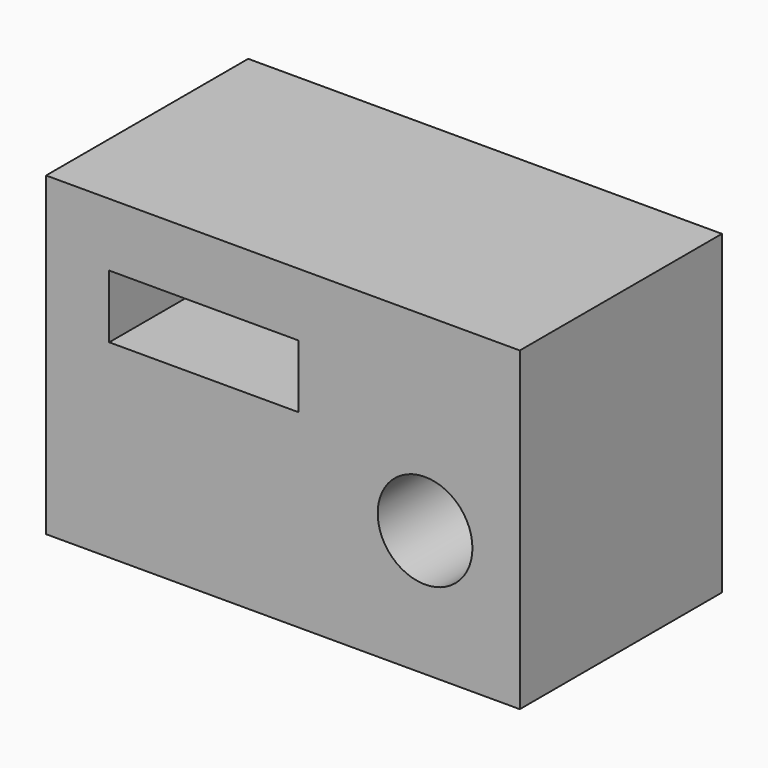
from build123d import *

# Parameters (mm, degrees)
F1_R     = 7.5
F1_W     = 30
F1_H     = 10
F2_DEPTH = 20


with BuildPart() as f2:
    # F1 (on face) → F2 (new body, symmetric)
    with BuildSketch(Plane.XZ):
        Polygon((-60, 30), (-60, -20), (0, -20), (15, -20), (15, 0), (15, 30), align=None)
        Circle(F1_R, mode=Mode.SUBTRACT)
        with Locations((-35, 15)):
            Rectangle(F1_W, F1_H, mode=Mode.SUBTRACT)
    extrude(amount=F2_DEPTH, both=True)


solid = f2.part
